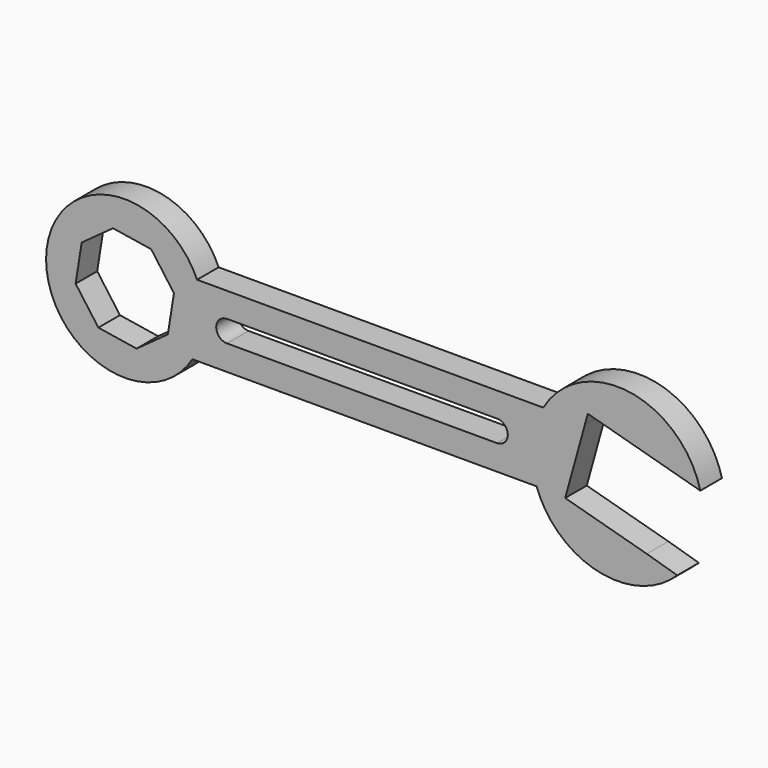
from build123d import *

# Parameters (mm, degrees)
F1_DEPTH = 2.54


with BuildPart() as f1:
    # F0 (on Front) → F1 (new body, symmetric)
    with BuildSketch(Plane.XZ):
        with BuildLine():
            Line((-34.314002, 9.582906), (-34.314002, 21.31113))
            ThreePointArc((-34.314002, 21.31113), (-62.691893, 16.413153), (-35.19322, 7.862254))
            ThreePointArc((-35.19322, 7.862254), (-34.725519, 8.708226), (-34.314002, 9.582906))
        make_face()
        Polygon((-42.942699, 23.557279), (-38.663793, 17.666949), (-39.803242, 10.476214), (-45.693572, 6.197308), (-52.884307, 7.336757), (-57.163212, 13.227087), (-56.023764, 20.417822), (-50.133434, 24.696727), align=None, mode=Mode.SUBTRACT)
        with BuildLine():
            Line((30.832, 21.31113), (-34.314002, 21.31113))
            Line((-34.314002, 21.31113), (-34.314002, 9.582906))
            ThreePointArc((-34.314002, 9.582906), (-34.725519, 8.708226), (-35.19322, 7.862254))
            Line((-35.19322, 7.862254), (-34.314002, 7.862254))
            Line((-34.314002, 7.862254), (29.576525, 7.862254))
            ThreePointArc((29.576525, 7.862254), (28.726842, 14.724611), (30.832, 21.31113))
        make_face()
        with BuildLine():
            ThreePointArc((-28.677113, 12.598262), (-30.70935, 14.630499), (-28.677113, 16.662735))
            Line((-28.677113, 16.662735), (22.128796, 16.662735))
            ThreePointArc((22.128796, 16.662735), (24.161033, 14.630499), (22.128796, 12.598262))
            Line((22.128796, 12.598262), (-28.677113, 12.598262))
        make_face(mode=Mode.SUBTRACT)
        with BuildLine():
            ThreePointArc((60.391538, 17.164629), (47.006746, 29.182375), (30.832, 21.31113))
            ThreePointArc((30.832, 21.31113), (28.726842, 14.724611), (29.576525, 7.862254))
            ThreePointArc((29.576525, 7.862254), (41.1317, -2.468564), (56.052909, 1.727312))
            Line((56.052909, 1.727312), (50.318425, 3.422388))
            Line((50.318425, 3.422388), (34.963898, 7.677261))
            Line((34.963898, 7.677261), (38.663793, 21.029043))
            Line((38.663793, 21.029043), (39.218771, 23.031787))
            Line((39.218771, 23.031787), (54.573298, 18.776914))
            Line((54.573298, 18.776914), (60.391538, 17.164629))
        make_face()
        with BuildLine():
            Line((30.832, 21.31113), (-34.314002, 21.31113))
            Line((-34.314002, 21.31113), (-34.314002, 9.582906))
            ThreePointArc((-34.314002, 9.582906), (-34.725519, 8.708226), (-35.19322, 7.862254))
            Line((-35.19322, 7.862254), (-34.314002, 7.862254))
            Line((-34.314002, 7.862254), (29.576525, 7.862254))
            ThreePointArc((29.576525, 7.862254), (28.726842, 14.724611), (30.832, 21.31113))
        make_face()
        with BuildLine():
            ThreePointArc((-28.677113, 12.598262), (-30.70935, 14.630499), (-28.677113, 16.662735))
            Line((-28.677113, 16.662735), (22.128796, 16.662735))
            ThreePointArc((22.128796, 16.662735), (24.161033, 14.630499), (22.128796, 12.598262))
            Line((22.128796, 12.598262), (-28.677113, 12.598262))
        make_face(mode=Mode.SUBTRACT)
        with BuildLine():
            ThreePointArc((60.391538, 17.164629), (47.006746, 29.182375), (30.832, 21.31113))
            ThreePointArc((30.832, 21.31113), (28.726842, 14.724611), (29.576525, 7.862254))
            ThreePointArc((29.576525, 7.862254), (41.1317, -2.468564), (56.052909, 1.727312))
            Line((56.052909, 1.727312), (50.318425, 3.422388))
            Line((50.318425, 3.422388), (34.963898, 7.677261))
            Line((34.963898, 7.677261), (38.663793, 21.029043))
            Line((38.663793, 21.029043), (39.218771, 23.031787))
            Line((39.218771, 23.031787), (54.573298, 18.776914))
            Line((54.573298, 18.776914), (60.391538, 17.164629))
        make_face()
    extrude(amount=F1_DEPTH, both=True)


solid = f1.part
